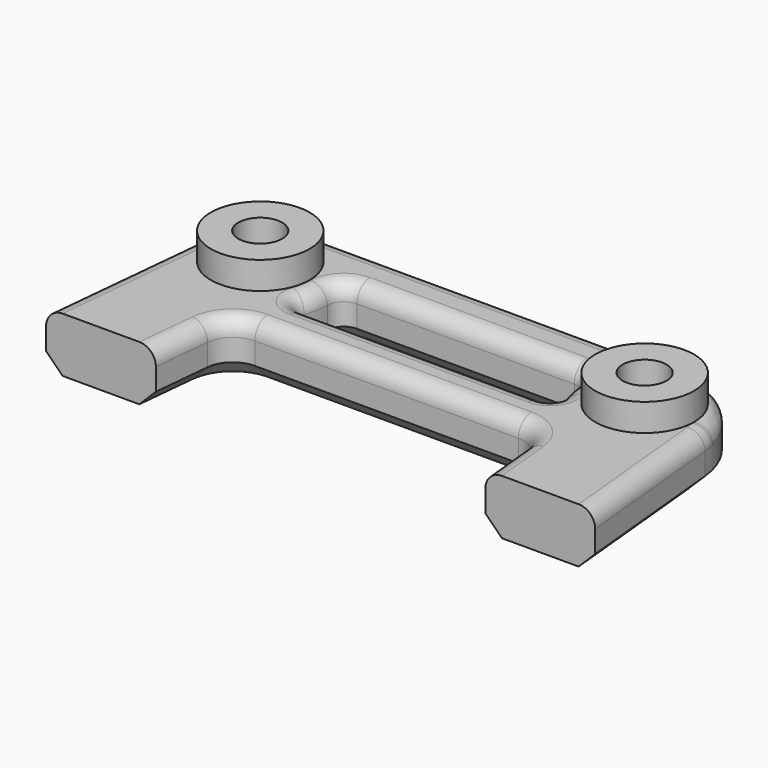
from build123d import *

# Parameters (mm, degrees)
F0_R     = 4
F1_DEPTH = 10
F2_R     = 9
F2_R_2   = 4
F3_DEPTH = 5
F4_R     = 4
F5_DEPTH = 3
F6_R     = 3
F7_SIZE  = 3


with BuildPart() as f1:
    # F0 (on Top) → F1 (new body)
    with BuildSketch(Plane.XY):
        with BuildLine():
            Line((32.279847, 22), (0, 22))
            Line((0, 22), (-32.279847, 22))
            ThreePointArc((-32.279847, 22), (-42.355492, 18.112218), (-47.208215, 8.464184))
            Line((-47.208215, 8.464184), (-50, -20))
            Line((-50, -20), (-30, -20))
            Line((-30, -20), (-28.971324, -9.511939))
            ThreePointArc((-28.971324, -9.511939), (-27.35375, -6.295927), (-23.995202, -5))
            Line((-23.995202, -5), (0, -5))
            Line((0, -5), (23.995202, -5))
            ThreePointArc((23.995202, -5), (27.35375, -6.295927), (28.971324, -9.511939))
            Line((28.971324, -9.511939), (30, -20))
            Line((30, -20), (50, -20))
            Line((50, -20), (47.208215, 8.464184))
            ThreePointArc((47.208215, 8.464184), (42.355492, 18.112218), (32.279847, 22))
        make_face()
        with Locations((-35, 10)):
            Circle(F0_R, mode=Mode.SUBTRACT)
        with BuildLine():
            Line((21.702398, 3), (0, 3))
            Line((0, 3), (-21.702398, 3))
            ThreePointArc((-21.702398, 3), (-23.346752, 3.861536), (-23.574435, 5.7039))
            ThreePointArc((-23.574435, 5.7039), (-22.990279, 7.816744), (-22.793444, 10))
            ThreePointArc((-22.793444, 10), (-21.914765, 12.12132), (-19.793444, 13))
            Line((-19.793444, 13), (19.793444, 13))
            ThreePointArc((19.793444, 13), (21.914765, 12.12132), (22.793444, 10))
            ThreePointArc((22.793444, 10), (22.990279, 7.816744), (23.574435, 5.7039))
            ThreePointArc((23.574435, 5.7039), (23.346752, 3.861536), (21.702398, 3))
        make_face(mode=Mode.SUBTRACT)
        with Locations((35, 10)):
            Circle(F0_R, mode=Mode.SUBTRACT)
    extrude(amount=F1_DEPTH)

    # F2 (on face) → F3 (join)
    with BuildSketch(Plane.XY.offset(10)):
        with Locations((35, 10)):
            Circle(F2_R)
        with Locations((35, 10)):
            Circle(F2_R_2, mode=Mode.SUBTRACT)
        with Locations((-35, 10)):
            Circle(F2_R)
        with Locations((-35, 10)):
            Circle(F2_R_2, mode=Mode.SUBTRACT)
    extrude(amount=F3_DEPTH)

    # F4 (on face) → F5 (join)
    with BuildSketch(Plane(origin=(0, 0, 0), x_dir=(1, 0, 0), z_dir=(0, 0, -1))):
        with Locations((35, -10)):
            Circle(F4_R)
        with Locations((-35, -10)):
            Circle(F4_R)
    extrude(amount=-F5_DEPTH)

    # F6
    f6_edges = [f1.edges().sort_by_distance(p)[0] for p in [
        (0, -5, 10),
        (0, 22, 10),
        (0, 13, 10),
    ]]
    fillet(f6_edges, radius=F6_R)

    # F7
    f7_edges = [f1.edges().sort_by_distance(p)[0] for p in [
        (42.355492, 18.112218, 0),
        (0, 13, 0),
        (0, -5, 0),
    ]]
    chamfer(f7_edges, length=F7_SIZE)


solid = f1.part
